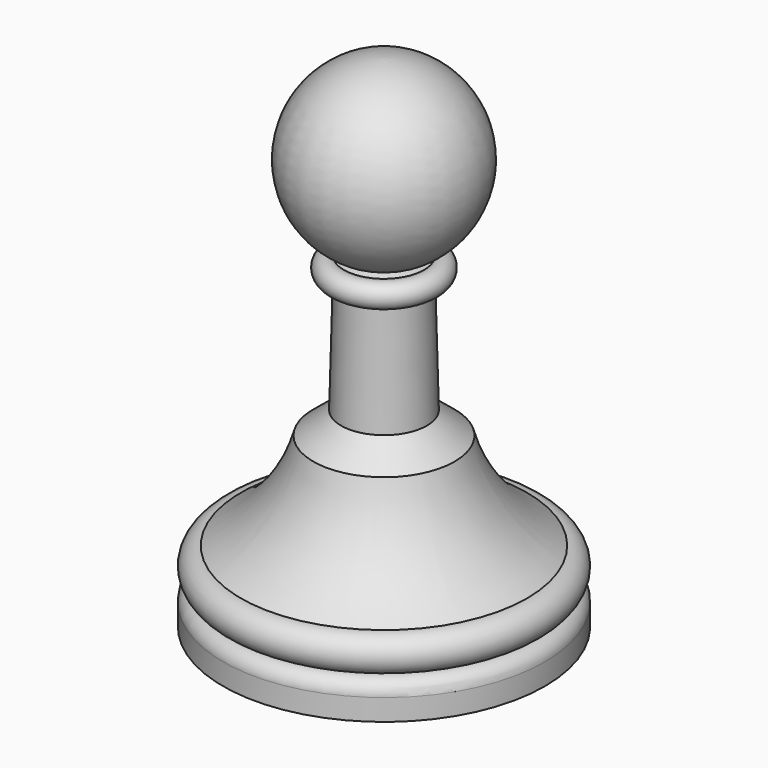
from build123d import *

# Parameters (mm, degrees)
F2_R = 1.27


with BuildPart() as f1:
    # F0 (on Front) → F1 (revolve)
    with BuildSketch(Plane.XZ):
        with BuildLine():
            Line((0, 44.45), (0, 28.578821))
            ThreePointArc((0, 28.578821), (1.511595, 28.75798), (2.961196, 29.222389))
            ThreePointArc((2.961196, 29.222389), (7.617407, 38.029572), (0, 44.45))
        make_face()
        with BuildLine():
            Line((0, 16.85225), (0, 0))
            Line((0, 0), (14.2875, 0))
            Line((14.2875, 0), (14.2875, 3.175))
            Line((14.2875, 3.175), (12.7, 3.175))
            ThreePointArc((12.7, 3.175), (14.2875, 4.7625), (12.7, 6.35))
            ThreePointArc((12.7, 6.35), (8.652447, 10.023664), (6.272115, 14.944284))
            Line((6.272115, 14.944284), (3.80881, 16.94747))
            Line((3.80881, 16.94747), (0, 16.85225))
        make_face()
        Polygon((0, 27.015424), (0, 16.85225), (3.80881, 16.94747), (3.554889, 27.104297), align=None)
        with BuildLine():
            Line((0, 28.578821), (0, 27.015424))
            Line((0, 27.015424), (3.554889, 27.104297))
            ThreePointArc((3.554889, 27.104297), (5.050466, 28.068085), (3.554889, 29.031873))
            Line((3.554889, 29.031873), (2.961196, 29.222389))
            ThreePointArc((2.961196, 29.222389), (1.511595, 28.75798), (0, 28.578821))
        make_face()
    revolve(axis=Axis((0, 0, 22.225), (0, 0, 1)))

    # F2
    f2_edges = [f1.edges().sort_by_distance(p)[0] for p in [
        (-14.2875, 0, 3.175),
    ]]
    fillet(f2_edges, radius=F2_R)


solid = f1.part
